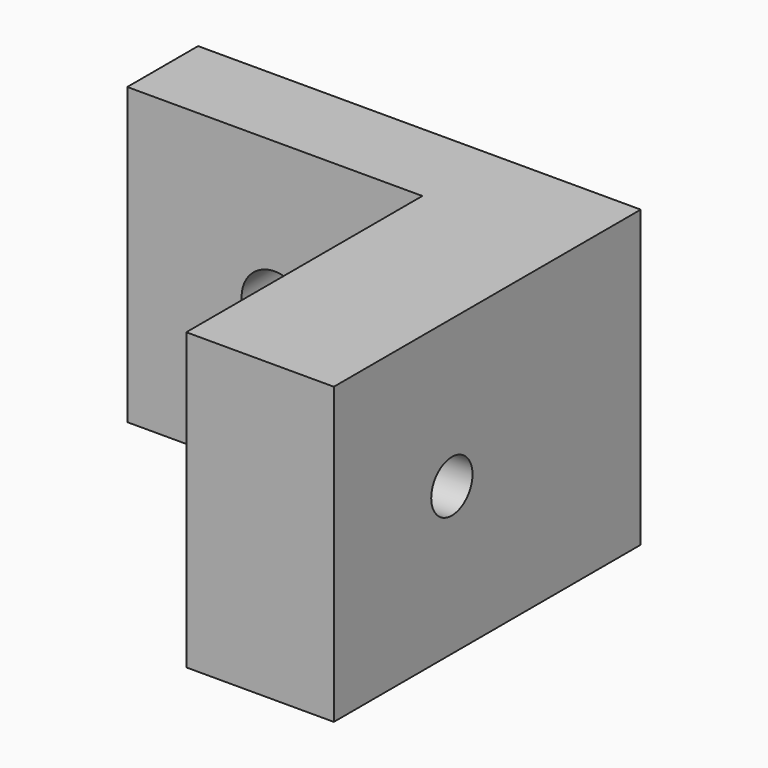
from build123d import *

# Parameters (mm, degrees)
PAD_DEPTH       = 20
SKETCH001_R     = 2.25
POCKET_DEPTH    = 6.001
SKETCH002_R     = 1.75
POCKET001_DEPTH = 10.001
SKETCH003_R     = 4
POCKET002_DEPTH = 3.5


with BuildPart() as part:
    # Sketch → Pad (new body)
    with BuildSketch(Plane.XY):
        Polygon((0, 0), (0, -20), (10, -20), (10, 6), (-20, 6), (-20, 0), align=None)
    extrude(amount=PAD_DEPTH)

    # Sketch001 → Pocket (cut, through all)
    with BuildSketch(Plane.XZ):
        with Locations((-10, 10)):
            Circle(SKETCH001_R)
    extrude(amount=-POCKET_DEPTH, mode=Mode.SUBTRACT)

    # Sketch002 → Pocket001 (cut, through all)
    with BuildSketch(Plane(origin=(0, 0, 0), x_dir=(0, -1, 0), z_dir=(-1, 0, 0))):
        with Locations((10, 10)):
            Circle(SKETCH002_R)
    extrude(amount=-POCKET001_DEPTH, mode=Mode.SUBTRACT)

    # Sketch003 → Pocket002 (cut)
    with BuildSketch(Plane(origin=(0, 0, 0), x_dir=(0, -1, 0), z_dir=(-1, 0, 0))):
        with Locations((10, 10)):
            Circle(SKETCH003_R)
    extrude(amount=-POCKET002_DEPTH, mode=Mode.SUBTRACT)


solid = part.part
